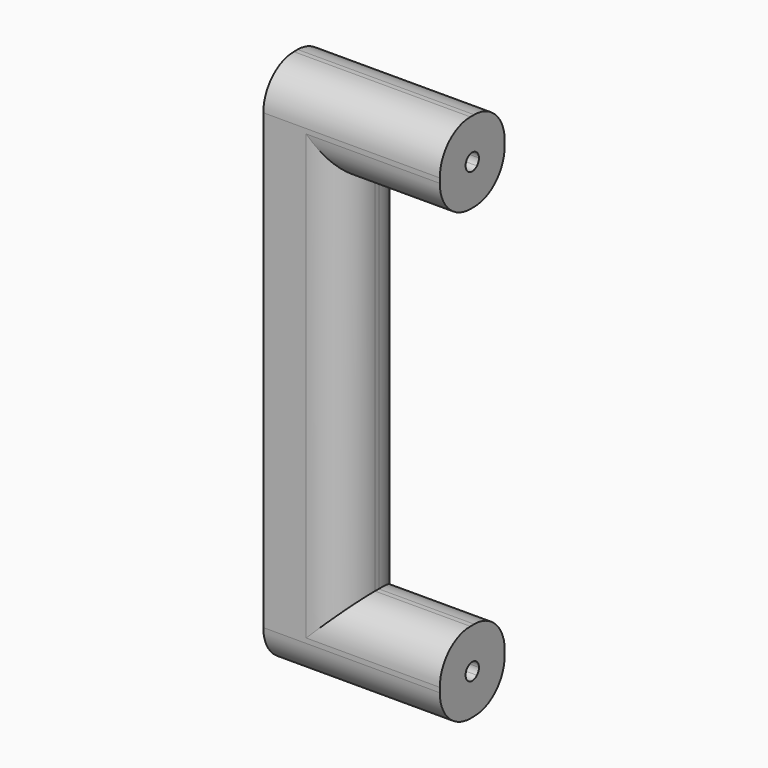
from build123d import *

# Parameters (mm, degrees)
F0_W     = 20
F0_H     = 17
F0_W_2   = 17
F0_H_2   = 77
F1_DEPTH = 8.5
F3_DEPTH = 20
F4_DEPTH = 20
F5_R     = 8


with BuildPart() as f1:
    # F0 (on Front) → F1 (new body, symmetric)
    with BuildSketch(Plane.XZ):
        with Locations((-10, 8.5)):
            Rectangle(F0_W, F0_H)
        Polygon((-37, 0), (-20, 0), (-20, 17), (-28.5, 8.5), align=None)
        with Locations((-28.5, 55.5)):
            Rectangle(F0_W_2, F0_H_2)
        Polygon((-28.5, 8.5), (-20, 17), (-37, 17), align=None)
        Polygon((-37, 17), (-37, 0), (-28.5, 8.5), align=None)
        Polygon((-37, 94), (-20, 94), (-20, 111), (-28.5, 102.5), align=None)
        with Locations((-10, 102.5)):
            Rectangle(F0_W, F0_H)
        Polygon((-28.5, 102.5), (-20, 111), (-37, 111), align=None)
        Polygon((-37, 111), (-37, 94), (-28.5, 102.5), align=None)
    extrude(amount=F1_DEPTH, both=True)

    # F2 (on face) → F3 (cut)
    with BuildSketch(Plane.YZ):
        with BuildLine():
            ThreePointArc((1.75, 102.5), (0.6696960066, 104.1167891819), (-1.2374368671, 103.7374368671))
            Line((-1.2374368671, 103.7374368671), (0, 102.5))
            Line((0, 102.5), (1.2374368671, 101.2625631329))
            ThreePointArc((1.2374368671, 101.2625631329), (1.6167891819, 101.8303039934), (1.75, 102.5))
        make_face()
        with BuildLine():
            Line((1.2374368671, 101.2625631329), (0, 102.5))
            Line((0, 102.5), (-1.2374368671, 101.2625631329))
            ThreePointArc((-1.2374368671, 101.2625631329), (0, 100.75), (1.2374368671, 101.2625631329))
        make_face()
        with BuildLine():
            Line((0, 102.5), (-1.2374368671, 103.7374368671))
            ThreePointArc((-1.2374368671, 103.7374368671), (-1.75, 102.5), (-1.2374368671, 101.2625631329))
            Line((-1.2374368671, 101.2625631329), (0, 102.5))
        make_face()
    extrude(amount=-F3_DEPTH, mode=Mode.SUBTRACT)

    # F2 (on face) → F4 (cut)
    with BuildSketch(Plane.YZ):
        with BuildLine():
            Line((0, 8.5), (-1.2374368671, 7.2625631329))
            ThreePointArc((-1.2374368671, 7.2625631329), (0, 6.75), (1.2374368671, 7.2625631329))
            Line((1.2374368671, 7.2625631329), (0, 8.5))
        make_face()
        with BuildLine():
            Line((1.2374368671, 9.7374368671), (0, 8.5))
            Line((0, 8.5), (1.2374368671, 7.2625631329))
            ThreePointArc((1.2374368671, 7.2625631329), (1.6167891819, 7.8303039934), (1.75, 8.5))
            ThreePointArc((1.75, 8.5), (1.6167891819, 9.1696960066), (1.2374368671, 9.7374368671))
        make_face()
        with BuildLine():
            ThreePointArc((1.2374368671, 9.7374368671), (-1.2374368671, 9.7374368671), (-1.2374368671, 7.2625631329))
            Line((-1.2374368671, 7.2625631329), (0, 8.5))
            Line((0, 8.5), (1.2374368671, 9.7374368671))
        make_face()
    extrude(amount=-F4_DEPTH, mode=Mode.SUBTRACT)

    # F5
    f5_edges = [f1.edges().sort_by_distance(p)[0] for p in [
        (-20, 8.5, 55.5),
        (-20, -8.5, 55.5),
        (-10, 8.5, 94),
        (-10, -8.5, 94),
        (-10, -8.5, 17),
        (-10, 8.5, 17),
        (-18.5, -8.5, 0),
        (-18.5, 8.5, 0),
        (-18.5, -8.5, 111),
        (-18.5, 8.5, 111),
    ]]
    fillet(f5_edges, radius=F5_R)


solid = f1.part
